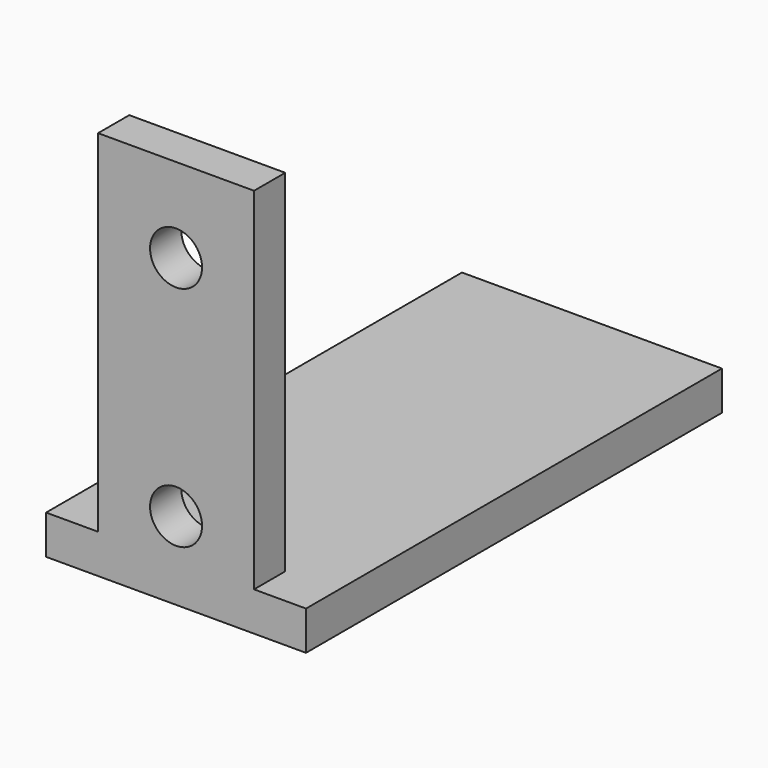
from build123d import *

# Parameters (mm, degrees)
F0_W     = 20
F0_H     = 40
F1_DEPTH = 3
F2_W     = 12
F2_H     = 30
F2_R     = 2
F3_DEPTH = 3


with BuildPart() as f1:
    # F0 (on Top) → F1 (new body)
    with BuildSketch(Plane.XY):
        with Locations((0, -20)):
            Rectangle(F0_W, F0_H)
    extrude(amount=F1_DEPTH)

    # F2 (on face) → F3 (join)
    with BuildSketch(Plane.XZ.offset(40)):
        with Locations((0, 15)):
            Rectangle(F2_W, F2_H)
        with Locations((0, 6)):
            Circle(F2_R, mode=Mode.SUBTRACT)
        with Locations((0, 23.5)):
            Circle(F2_R, mode=Mode.SUBTRACT)
    extrude(amount=-F3_DEPTH)


solid = f1.part
